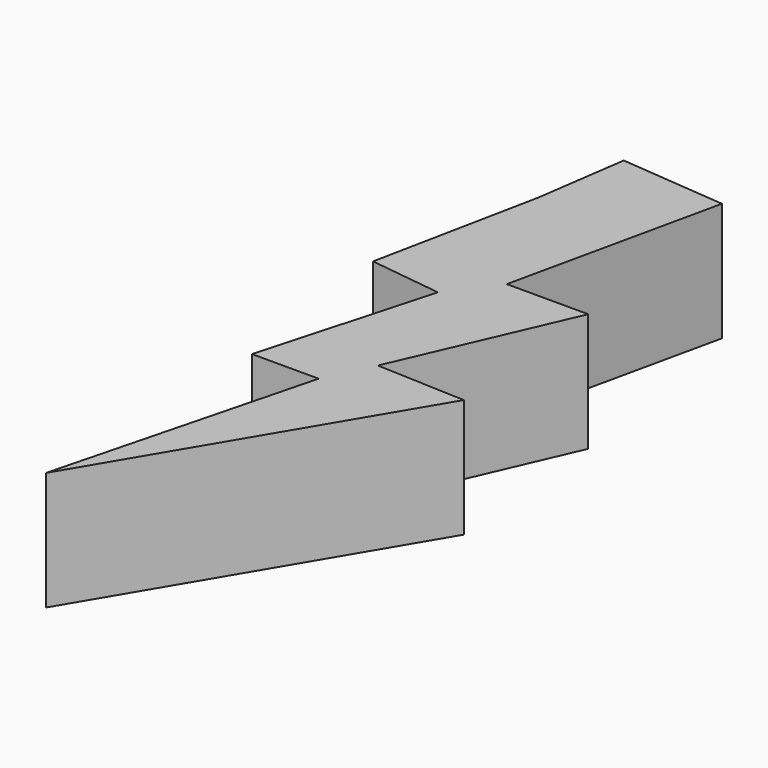
from build123d import *

# Parameters (mm, degrees)
PAD_DEPTH = 10


with BuildPart() as part:
    # Sketch → Pad (new body)
    with BuildSketch(Plane.XY):
        Polygon((-7.187497, 30.156248), (-9.999992, 16.250002), (-3.906249, 15.468752), (-7.968744, 0.937498), (-2.343746, 0.937498), (-7.968744, -20.781248), (7.031248, 4.531252), (-0.468742, 4.843748), (5.781255, 19.218748), (-1.093747, 19.218748), (2.812497, 37.03125), (-6.093749, 37.8125), align=None)
    extrude(amount=PAD_DEPTH)


solid = part.part
